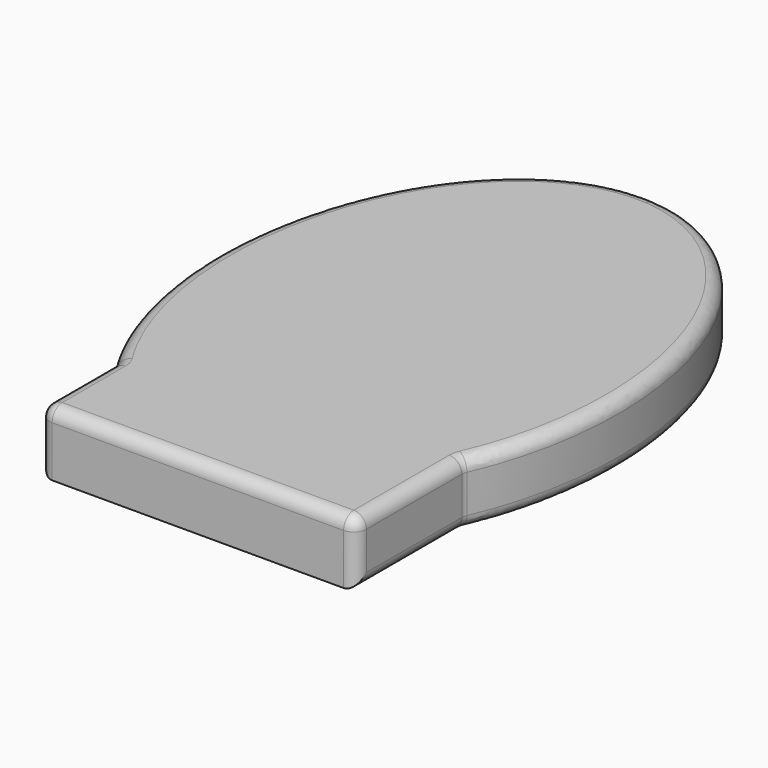
from build123d import *

# Parameters (mm, degrees)
F1_DEPTH = 25.4
F2_R     = 5.08


with BuildPart() as f1:
    # F0 (on Top) → F1 (new body)
    with BuildSketch(Plane.XY):
        with BuildLine():
            Line((76.2, 0), (0, 0))
            Line((0, 0), (0, 114.3))
            add(Edge.make_bspline(
                [(0, 114.3), (-197.334433, 129.25868), (-63.5, -77.519546)],
                knots=[6.229935, 6.229935, 6.229935, 8.598, 8.598, 8.598], degree=2, weights=[1, 0.377193, 1]))
            Line((-63.5, -77.519546), (-63.5, -36.650248))
            Line((-63.5, -36.650248), (63.5, -36.650248))
            Line((63.5, -36.650248), (63.5, -61.713303))
            add(Edge.make_bspline(
                [(63.5, -61.713303), (76.2, -33.499707), (76.2, 0)],
                knots=[4.142951, 4.142951, 4.142951, 4.712389, 4.712389, 4.712389], degree=2, weights=[1, 0.959741, 1]))
        make_face()
        with BuildLine():
            Line((0, 114.3), (0, 0))
            Line((0, 0), (76.2, 0))
            add(Edge.make_bspline(
                [(76.2, 0), (76.2, 108.523758), (0, 114.3)],
                knots=[4.712389, 4.712389, 4.712389, 6.229935, 6.229935, 6.229935], degree=2, weights=[1, 0.725681, 1]))
        make_face()
        with BuildLine():
            Line((63.5, -115.662508), (63.5, -61.713303))
            add(Edge.make_bspline(
                [(-63.5, -77.519546), (7.208762, -186.766711), (63.5, -61.713303)],
                knots=[2.314815, 2.314815, 2.314815, 4.142951, 4.142951, 4.142951], degree=2, weights=[1, 0.610529, 1]))
            Line((-63.5, -77.519546), (-63.5, -115.662508))
            Line((-63.5, -115.662508), (63.5, -115.662508))
        make_face()
        with BuildLine():
            add(Edge.make_bspline(
                [(-63.5, -77.519546), (7.208762, -186.766711), (63.5, -61.713303)],
                knots=[2.314815, 2.314815, 2.314815, 4.142951, 4.142951, 4.142951], degree=2, weights=[1, 0.610529, 1]))
            Line((63.5, -61.713303), (63.5, -36.650248))
            Line((63.5, -36.650248), (-63.5, -36.650248))
            Line((-63.5, -36.650248), (-63.5, -77.519546))
        make_face()
    extrude(amount=F1_DEPTH)

    # F2
    f2_edges = [f1.edges().sort_by_distance(p)[0] for p in [
        (63.5, -115.662508, 12.7),
        (-63.5, -115.662508, 12.7),
        (-80.161297, 38.167571, 0),
        (-80.161297, 38.167571, 25.4),
        (0, -115.662508, 25.4),
        (-63.5, -96.591027, 0),
        (-63.5, -96.591027, 25.4),
        (63.5, -61.713303, 12.7),
        (-63.5, -77.519546, 12.7),
        (63.5, -88.687906, 0),
        (63.5, -88.687906, 25.4),
    ]]
    fillet(f2_edges, radius=F2_R)


solid = f1.part
